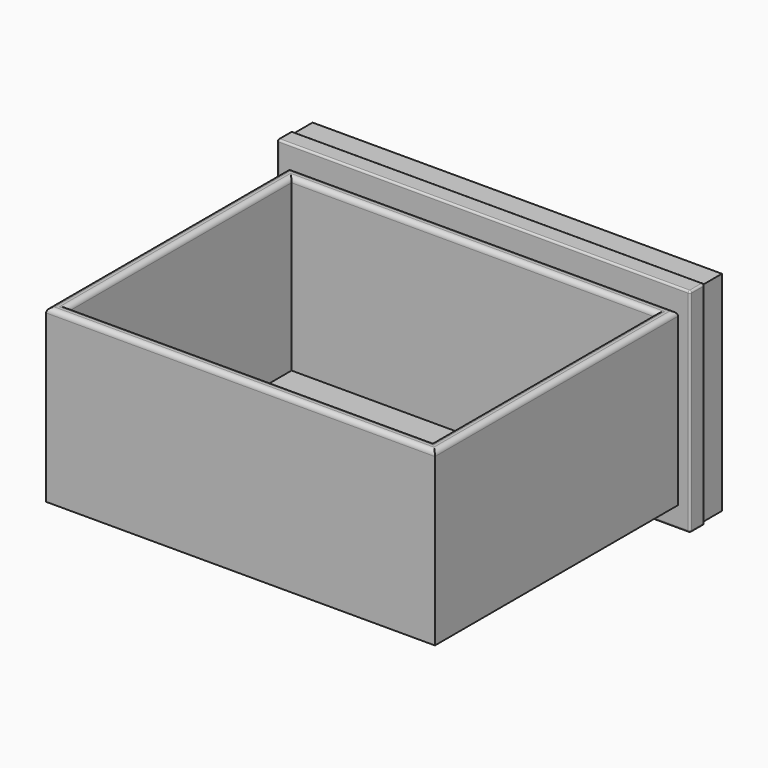
from build123d import *

# Parameters (mm, degrees)
F0_W      = 406.4
F0_H      = 317.5
F0_W_2    = 381
F0_H_2    = 292.1
F1_DEPTH  = 177.8
F2_W      = 406.4
F2_H      = 317.5
F3_DEPTH  = 1
F4_W      = 431.8
F4_H      = 222.25
F5_DEPTH  = 19.05
F6_R      = 5
F7_R      = 2
F5_FACE_W = 427.8
F5_FACE_H = 218.25
F8_DEPTH  = 25
F10_DEPTH = 30
F11_R     = 15


with BuildPart() as f1:
    # F0 (on Top) → F1 (new body)
    with BuildSketch(Plane.XY):
        Rectangle(F0_W, F0_H)
        Rectangle(F0_W_2, F0_H_2, mode=Mode.SUBTRACT)
    extrude(amount=F1_DEPTH)

    # F2 (on face) → F3 (join)
    with BuildSketch(Plane(origin=(0, 0, 0), x_dir=(1, 0, 0), z_dir=(0, 0, -1))):
        Rectangle(F2_W, F2_H)
    extrude(amount=F3_DEPTH)

    # F6
    f6_edges = [f1.edges().sort_by_distance(p)[0] for p in [
        (203.2, 0, 177.8),
        (190.5, 0, 177.8),
        (0, -146.05, 177.8),
        (0, -158.75, 177.8),
        (-190.5, 0, 177.8),
        (-203.2, 0, 177.8),
        (0, 158.75, 177.8),
        (0, 146.05, 177.8),
    ]]
    fillet(f6_edges, radius=F6_R)


with BuildPart() as f5:
    # F4 (on face) → F5 (new body)
    with BuildSketch(Plane(origin=(0, 158.75, 0), x_dir=(-1, 0, 0), z_dir=(0, 1, 0))):
        with Locations((0, 88.4)):
            Rectangle(F4_W, F4_H)
    extrude(amount=F5_DEPTH)

    # F7
    f7_edges = [f5.edges().sort_by_distance(p)[0] for p in [
        (0, 177.8, -22.725),
        (-215.9, 177.8, 88.4),
        (0, 177.8, 199.525),
        (215.9, 177.8, 88.4),
        (-215.9, 168.275, 199.525),
        (215.9, 168.275, 199.525),
        (0, 158.75, 199.525),
        (-215.9, 168.275, -22.725),
        (-215.9, 158.75, 88.4),
        (215.9, 168.275, -22.725),
        (0, 158.75, -22.725),
        (215.9, 158.75, 88.4),
    ]]
    fillet(f7_edges, radius=F7_R)

    # F5_face (on face) → F8 (join)
    with BuildSketch(Plane(origin=(0, 177.8, 88.4), x_dir=(-1, 0, 0), z_dir=(0, 1, 0))):
        Rectangle(F5_FACE_W, F5_FACE_H)
    extrude(amount=F8_DEPTH)


with BuildPart() as f10:
    # F9 (on face) → F10 (new body)
    with BuildSketch(Plane(origin=(0, 202.8, 0), x_dir=(-1, 0, 0), z_dir=(0, 1, 0))):
        with BuildLine():
            Line((-50, 63.309692), (50, 63.309692))
            ThreePointArc((50, 63.309692), (0, 113.309692), (-50, 63.309692))
        make_face()
    extrude(amount=F10_DEPTH)

    # F11
    f11_edges = [f10.edges().sort_by_distance(p)[0] for p in [
        (0, 232.8, 113.309692),
    ]]
    fillet(f11_edges, radius=F11_R)


solid = Compound([f1.part, f5.part, f10.part])
